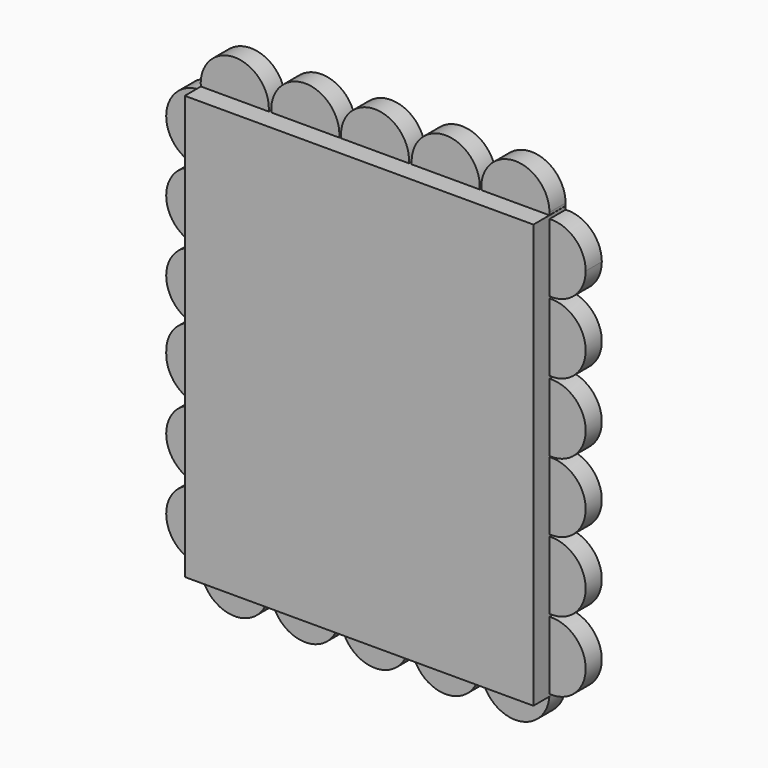
from build123d import *

# Parameters (mm, degrees)
F0_W     = 109.9267825484
F0_H     = 133.5819065571
F1_DEPTH = 12.7
F2_R     = 10.7431816759
F3_DEPTH = 6.35


with BuildPart() as f1:
    # F0 (on Front) → F1 (new body)
    with BuildSketch(Plane.XZ):
        Rectangle(F0_W, F0_H)
    extrude(amount=F1_DEPTH)

    # F2 (on Front) → F3 (join)
    with BuildSketch(Plane.XZ):
        with BuildLine():
            ThreePointArc((-54.8647659043, 65.771937418), (-62.855598517, 47.5400141751), (-44.4133696256, 55.0327189267))
            ThreePointArc((-44.4133696256, 55.0327189267), (-44.4528739131, 55.9531769039), (-44.5710962495, 56.8668655575))
            ThreePointArc((-44.5710962495, 56.8668655575), (-51.3080850098, 59.4812895059), (-54.8647659043, 65.771937418))
        make_face()
        with BuildLine():
            ThreePointArc((-54.8647659043, 65.771937418), (-51.3080850098, 59.4812895059), (-44.5710962495, 56.8668655575))
            ThreePointArc((-44.5710962495, 56.8668655575), (-48.127777144, 63.1575134696), (-54.8647659043, 65.771937418))
        make_face()
        with BuildLine():
            ThreePointArc((-54.8647659043, 65.771937418), (-48.127777144, 63.1575134696), (-44.5710962495, 56.8668655575))
            ThreePointArc((-44.5710962495, 56.8668655575), (-36.7866061007, 59.9070368332), (-33.5361291764, 67.6060840487))
            ThreePointArc((-33.5361291764, 67.6060840487), (-45.1997688295, 78.3097614371), (-54.8647659043, 65.771937418))
        make_face()
        with Locations((-55.1565513015, 32.958202064)):
            Circle(F2_R)
        with BuildLine():
            ThreePointArc((-52.5706916024, 0.2673333511), (-46.6949819123, 4.0751655765), (-44.4133696256, 10.6946667656))
            ThreePointArc((-44.4133696256, 10.6946667656), (-61.7760524906, 19.1562361549), (-57.7424110006, 0.2673333511))
            ThreePointArc((-57.7424110006, 0.2673333511), (-55.1565513015, 0.5831816124), (-52.5706916024, 0.2673333511))
        make_face()
        with BuildLine():
            ThreePointArc((-52.5706916024, 0.2673333511), (-55.1565513015, 0.5831816124), (-57.7424110006, 0.2673333511))
            ThreePointArc((-57.7424110006, 0.2673333511), (-55.1565513015, -0.0485149103), (-52.5706916024, 0.2673333511))
        make_face()
        with BuildLine():
            ThreePointArc((-52.5706916024, 0.2673333511), (-55.1565513015, -0.0485149103), (-57.7424110006, 0.2673333511))
            ThreePointArc((-57.7424110006, 0.2673333511), (-63.7536146291, -3.7174497406), (-65.8904871368, -10.605616495))
            ThreePointArc((-65.8904871368, -10.605616495), (-55.1565513015, -0.3080512506), (-44.4226154661, -10.605616495))
            ThreePointArc((-44.4226154661, -10.605616495), (-44.4156813344, -10.3828562333), (-44.4133696256, -10.1600000635))
            ThreePointArc((-44.4133696256, -10.1600000635), (-46.6949819123, -3.5404988743), (-52.5706916024, 0.2673333511))
        make_face()
        with BuildLine():
            ThreePointArc((-44.4226154661, -10.605616495), (-55.1565513015, -0.3080512506), (-65.8904871368, -10.605616495))
            ThreePointArc((-65.8904871368, -10.605616495), (-55.1565513015, -20.9031817394), (-44.4226154661, -10.605616495))
        make_face()
        with BuildLine():
            ThreePointArc((-44.4226154661, -10.605616495), (-55.1565513015, -20.9031817394), (-65.8904871368, -10.605616495))
            ThreePointArc((-65.8904871368, -10.605616495), (-55.3794074713, -21.7921028936), (-44.4133696256, -11.0512329265))
            ThreePointArc((-44.4133696256, -11.0512329265), (-44.4156813344, -10.8283767568), (-44.4226154661, -10.605616495))
        make_face()
        with Locations((-55.1565513015, -33.1257497892)):
            Circle(F2_R)
        with BuildLine():
            ThreePointArc((-55.0222353705, -66.1316270926), (-47.5126343419, -62.9382244857), (-44.4133696256, -55.3892850876))
            ThreePointArc((-44.4133696256, -55.3892850876), (-44.4134339152, -55.3521186225), (-44.4136267833, -55.3149526022))
            ThreePointArc((-44.4136267833, -55.3149526022), (-51.9492979256, -58.5348448189), (-55.0222353705, -66.1316270926))
        make_face()
        with BuildLine():
            ThreePointArc((-44.4136267833, -55.3149526022), (-44.4134339152, -55.3521186225), (-44.4133696256, -55.3892850876))
            ThreePointArc((-44.4133696256, -55.3892850876), (-47.5126343419, -62.9382244857), (-55.0222353705, -66.1316270926))
            ThreePointArc((-55.0222353705, -66.1316270926), (-44.2421443872, -76.8004119934), (-33.5361291764, -66.0572946072))
            ThreePointArc((-33.5361291764, -66.0572946072), (-36.7303714542, -58.4133776476), (-44.4136267833, -55.3149526022))
        make_face()
        with BuildLine():
            ThreePointArc((-55.0222353705, -66.1316270926), (-51.9492979256, -58.5348448189), (-44.4136267833, -55.3149526022))
            ThreePointArc((-44.4136267833, -55.3149526022), (-62.8265383748, -47.8668352994), (-55.0222353705, -66.1316270926))
        make_face()
        with BuildLine():
            ThreePointArc((45.0538106025, 56.8965595774), (54.698604075, 44.3303434084), (66.3772593143, 55.0327189267))
            ThreePointArc((66.3772593143, 55.0327189267), (62.9240422275, 62.9240032841), (54.7843493759, 65.742243398))
            ThreePointArc((54.7843493759, 65.742243398), (51.4306118455, 59.6566674772), (45.0538106025, 56.8965595774))
        make_face()
        with BuildLine():
            ThreePointArc((45.0538106025, 56.8965595774), (51.4306118455, 59.6566674772), (54.7843493759, 65.742243398))
            ThreePointArc((54.7843493759, 65.742243398), (48.4075481329, 62.9821354982), (45.0538106025, 56.8965595774))
        make_face()
        with BuildLine():
            ThreePointArc((45.0538106025, 56.8965595774), (48.4075481329, 62.9821354982), (54.7843493759, 65.742243398))
            ThreePointArc((54.7843493759, 65.742243398), (54.9064578583, 66.6706104853), (54.9472640159, 67.6060840487))
            ThreePointArc((54.9472640159, 67.6060840487), (36.3127979825, 74.8960486379), (45.0538106025, 56.8965595774))
        make_face()
        with Locations((55.6340776384, 32.958202064)):
            Circle(F2_R)
        with Locations((55.6340776384, 10.6946667656)):
            Circle(F2_R)
        with Locations((55.6340776384, -11.0512329265)):
            Circle(F2_R)
        with Locations((55.6340776384, -33.1257497892)):
            Circle(F2_R)
        with BuildLine():
            ThreePointArc((54.947132356, -66.1104817885), (62.9837706439, -63.2249704594), (66.3772593143, -55.3892850876))
            ThreePointArc((66.3772593143, -55.3892850876), (55.6606713106, -44.6461363267), (44.8910276224, -55.3360979062))
            ThreePointArc((44.8910276224, -55.3360979062), (52.0397677118, -58.7076016016), (54.9472640159, -66.0572946072))
            ThreePointArc((54.9472640159, -66.0572946072), (54.9472311009, -66.0838882793), (54.947132356, -66.1104817885))
        make_face()
        with BuildLine():
            ThreePointArc((54.9472640159, -66.0572946072), (52.0397677118, -58.7076016016), (44.8910276224, -55.3360979062))
            ThreePointArc((44.8910276224, -55.3360979062), (47.7802228434, -62.7195591193), (54.947132356, -66.1104817885))
            ThreePointArc((54.947132356, -66.1104817885), (54.9472311009, -66.0838882793), (54.9472640159, -66.0572946072))
        make_face()
        with BuildLine():
            ThreePointArc((54.947132356, -66.1104817885), (47.7802228434, -62.7195591193), (44.8910276224, -55.3360979062))
            ThreePointArc((44.8910276224, -55.3360979062), (36.350227545, -73.3875686389), (54.947132356, -66.1104817885))
        make_face()
        with Locations((22.239761427, 67.6060840487)):
            Circle(F2_R)
        with Locations((-0.0672219321, 67.6060840487)):
            Circle(F2_R)
        with Locations((-22.0315428451, 67.6060840487)):
            Circle(F2_R)
        with Locations((22.239761427, -66.0572946072)):
            Circle(F2_R)
        with Locations((-0.0672219321, -66.0572946072)):
            Circle(F2_R)
        with Locations((-22.0315428451, -66.0572946072)):
            Circle(F2_R)
    extrude(amount=F3_DEPTH)


solid = f1.part
